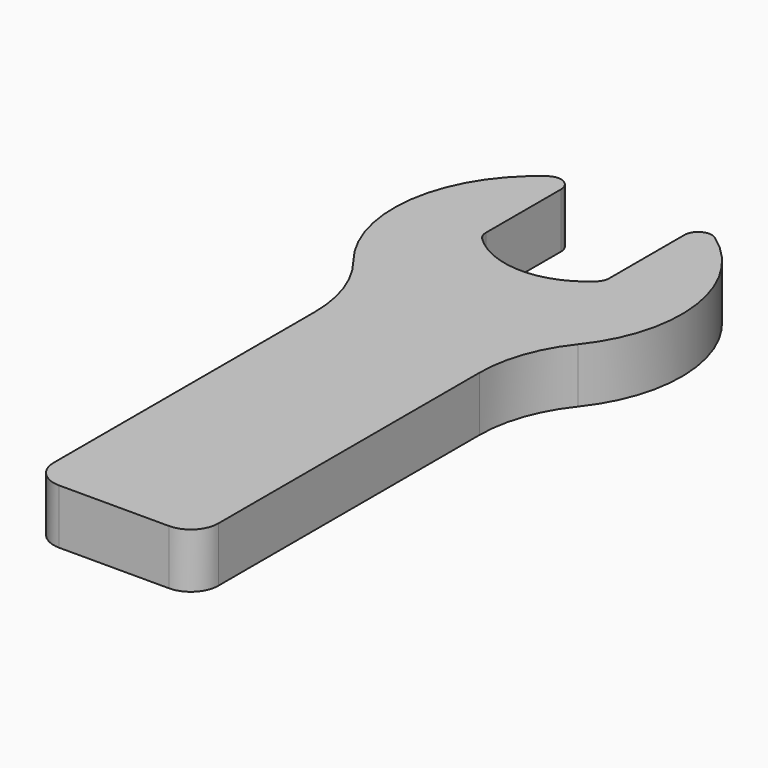
from build123d import *

# Parameters (mm, degrees)
F1_DEPTH = 4
F2_R     = 10
F3_R     = 1
F4_R     = 2
F5_R     = 1


with BuildPart() as f1:
    # F0 (on Top) → F1 (new body)
    with BuildSketch(Plane.XY):
        with BuildLine():
            Line((-4.5, 0.4868329805), (-4.5, 9.4868329805))
            ThreePointArc((-4.5, 9.4868329805), (-10.4641425726, 0.8670180042), (-6, -8.6168439698))
            Line((-6, -8.6168439698), (6, -8.6168439698))
            ThreePointArc((6, -8.6168439698), (10.4641425726, 0.8670180042), (4.5, 9.4868329805))
            Line((4.5, 9.4868329805), (4.5, 0.4868329805))
            ThreePointArc((4.5, 0.4868329805), (0, -1.5131670195), (-4.5, 0.4868329805))
        make_face()
        with BuildLine():
            Line((-4.5, 0.4868329805), (-4.5, 9.4868329805))
            ThreePointArc((-4.5, 9.4868329805), (-10.4641425726, 0.8670180042), (-6, -8.6168439698))
            Line((-6, -8.6168439698), (6, -8.6168439698))
            ThreePointArc((6, -8.6168439698), (10.4641425726, 0.8670180042), (4.5, 9.4868329805))
            Line((4.5, 9.4868329805), (4.5, 0.4868329805))
            ThreePointArc((4.5, 0.4868329805), (0, -1.5131670195), (-4.5, 0.4868329805))
        make_face()
        with BuildLine():
            Line((6, -8.6168439698), (-6, -8.6168439698))
            ThreePointArc((-6, -8.6168439698), (0, -10.5), (6, -8.6168439698))
        make_face()
        with BuildLine():
            ThreePointArc((6, -8.6168439698), (0, -10.5), (-6, -8.6168439698))
            Line((-6, -8.6168439698), (-6, -38.6168439698))
            Line((-6, -38.6168439698), (6, -38.6168439698))
            Line((6, -38.6168439698), (6, -8.6168439698))
        make_face()
    extrude(amount=F1_DEPTH)

    # F2
    f2_edges = [f1.edges().sort_by_distance(p)[0] for p in [
        (-6, -8.616844, 2),
        (6, -8.616844, 2),
    ]]
    fillet(f2_edges, radius=F2_R)

    # F3
    f3_edges = [f1.edges().sort_by_distance(p)[0] for p in [
        (-4.5, 9.486833, 2),
        (4.5, 9.486833, 2),
    ]]
    fillet(f3_edges, radius=F3_R)

    # F4
    f4_edges = [f1.edges().sort_by_distance(p)[0] for p in [
        (6, -38.616844, 2),
        (-6, -38.616844, 2),
    ]]
    fillet(f4_edges, radius=F4_R)

    # F5
    f5_edges = [f1.edges().sort_by_distance(p)[0] for p in [
        (4.5, 0.486833, 2),
        (-4.5, 0.486833, 2),
    ]]
    fillet(f5_edges, radius=F5_R)


solid = f1.part
